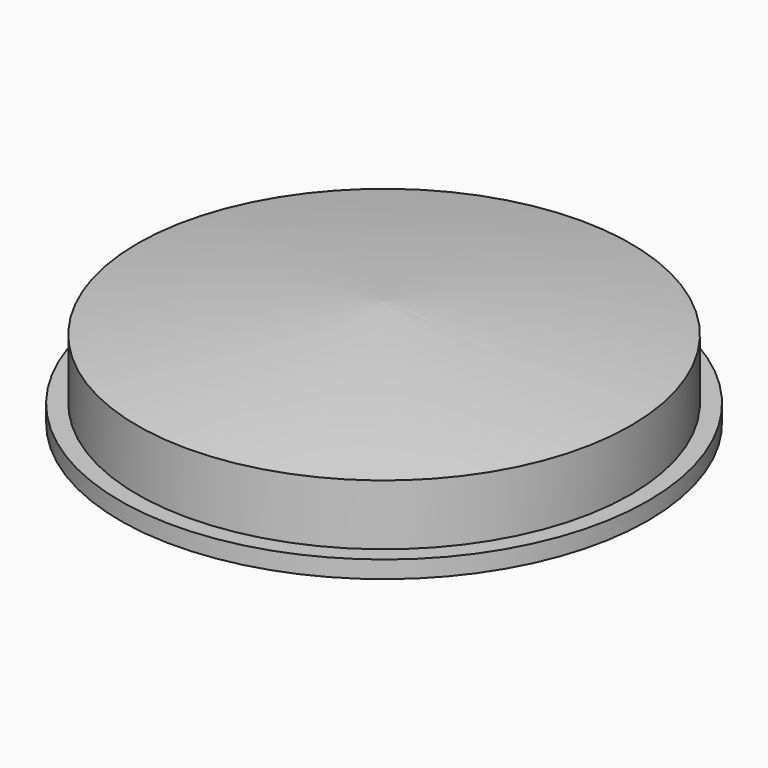
from build123d import *


with BuildPart() as f1:
    # F0 (on Front) → F1 (revolve)
    with BuildSketch(Plane.XZ):
        with BuildLine():
            Line((0, 10.39623), (0, 0))
            Line((0, 0), (9, 0))
            Line((9, 0), (11, 0))
            Line((11, 0), (11, 9.466172))
            ThreePointArc((11, 9.466172), (18.766089, 8.522592), (26.5, 7.343985))
            Line((26.5, 7.343985), (26.5, 2))
            Line((26.5, 2), (22.5, 2))
            Line((22.5, 2), (22.5, 0))
            Line((22.5, 0), (26.5, 0))
            Line((26.5, 0), (28.5, 0))
            Line((28.5, 0), (30.5, 0))
            Line((30.5, 0), (30.5, 2))
            Line((30.5, 2), (28.5, 2))
            Line((28.5, 2), (28.5, 7))
            Line((28.5, 7), (28.5, 9))
            ThreePointArc((28.5, 9), (14.2969, 11.091683), (0, 12.39623))
            Line((0, 12.39623), (0, 10.39623))
        make_face()
    revolve(axis=Axis((0, 0, 11.39623), (0, 0, 1)))


solid = f1.part
